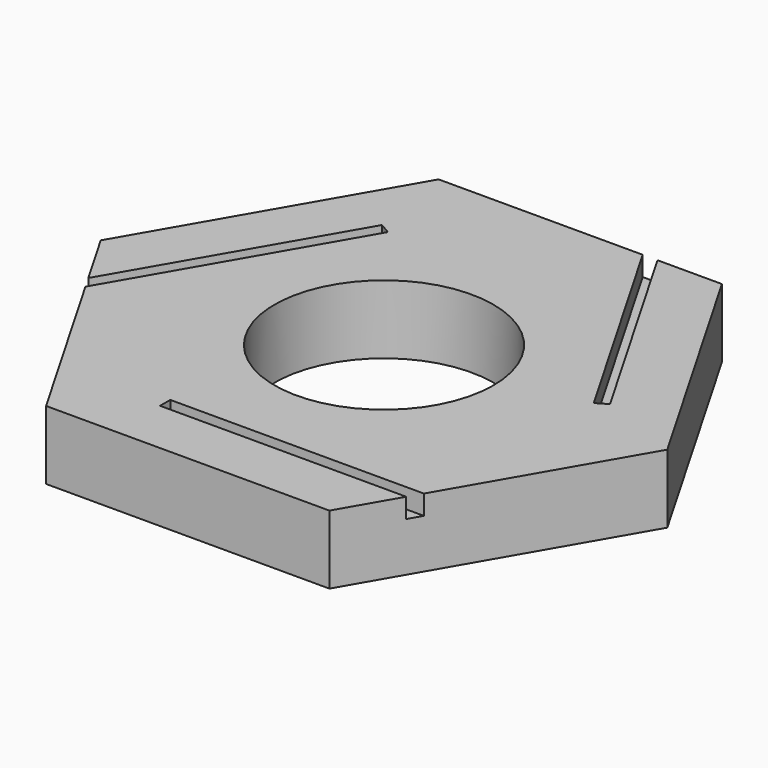
from build123d import *

# Parameters (mm, degrees)
F0_R     = 11.15
F1_DEPTH = 7
F2_W     = 41.241116
F2_H     = 1.306281
F3_DEPTH = 2


with BuildPart() as f1:
    # F0 (on Top) → F1 (new body)
    with BuildSketch(Plane.XY):
        Polygon((14.433757, 25), (-14.433757, 25), (-28.867513, 0), (-14.433757, -25), (14.433757, -25), (28.867513, 0), align=None)
        Circle(F0_R, mode=Mode.SUBTRACT)
        Polygon((14.433757, 25), (-14.433757, 25), (-28.867513, 0), (-14.433757, -25), (14.433757, -25), (28.867513, 0), align=None)
        Circle(F0_R, mode=Mode.SUBTRACT)
    extrude(amount=F1_DEPTH)

    # F2 (on face) → F3 (cut)
    with BuildSketch(Plane.XY.offset(7)):
        with Locations((13.249409, -18.661137)):
            Rectangle(F2_W, F2_H)
        Polygon((-1.3396, 38.33625), (19.280958, 2.620396), (20.41223, 3.273536), (-0.208328, 38.989391), align=None)
        Polygon((-32.530367, -20.328253), (-11.909808, 15.387601), (-13.041081, 16.040742), (-33.661639, -19.675113), align=None)
    extrude(amount=-F3_DEPTH, mode=Mode.SUBTRACT)


solid = f1.part
